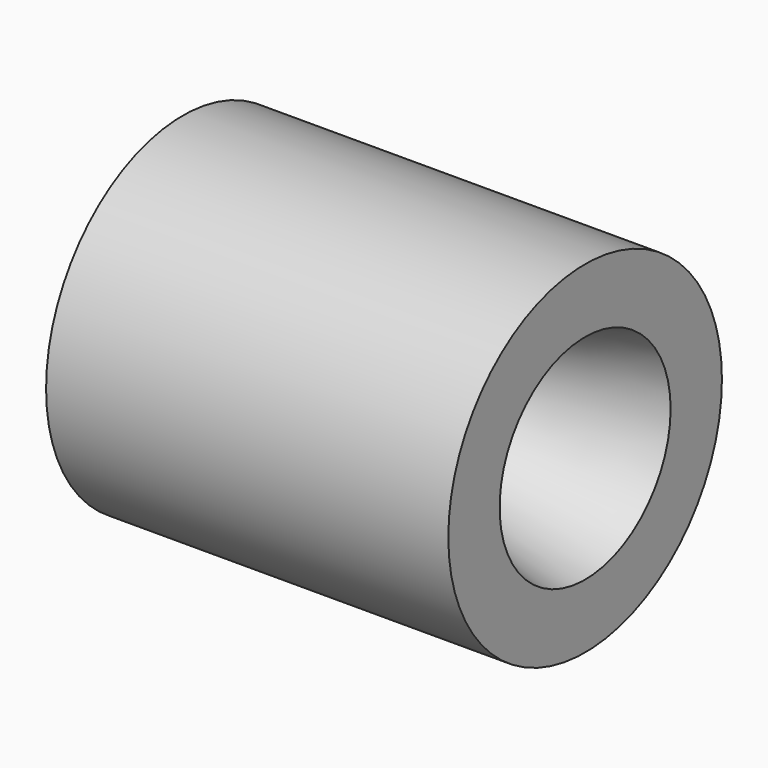
from build123d import *

# Parameters (mm, degrees)
F2_SIZE  = 0.508
F4_DEPTH = 3.175
F5_COUNT = 2
F5_ANGLE = 90


with BuildPart() as f1:
    # F0 (on Top) → F1 (revolve)
    with BuildSketch(Plane.XY):
        Polygon((14.9375, 6.35), (0, 6.35), (0, 3.175), (4.7625, 3.175), (4.7625, 2.159), (7.9375, 2.159), (14.9375, 3.96875), align=None)
    revolve(axis=Axis((21.9021170629, 0, 0), (1, 0, 0)))

    # F2
    f2_edges = [f1.edges().sort_by_distance(p)[0] for p in [
        (0, -3.175, 0),
    ]]
    chamfer(f2_edges, length=F2_SIZE)



with BuildPart() as f4:
    # F3 (on Top) → F4 (new body, symmetric)
    with BuildSketch(Plane.XY):
        Polygon((6.35, 0.396875), (4.7625, 0), (6.35, -0.396875), (7.9375, -0.396875), (7.9375, 0.396875), align=None)
    extrude(amount=F4_DEPTH, both=True)


with BuildPart() as f1_1:
    add(f1.part)

    add(f4.part)  # F5 merges F4
    # F5: F4 ×2 about axis
    f5_axis = Axis((4.7625, 0, 0), (1, 0, 0))
    for i in range(1, F5_COUNT):
        add(f4.part.rotate(f5_axis, i * F5_ANGLE / (F5_COUNT - 1)))


solid = f1_1.part
